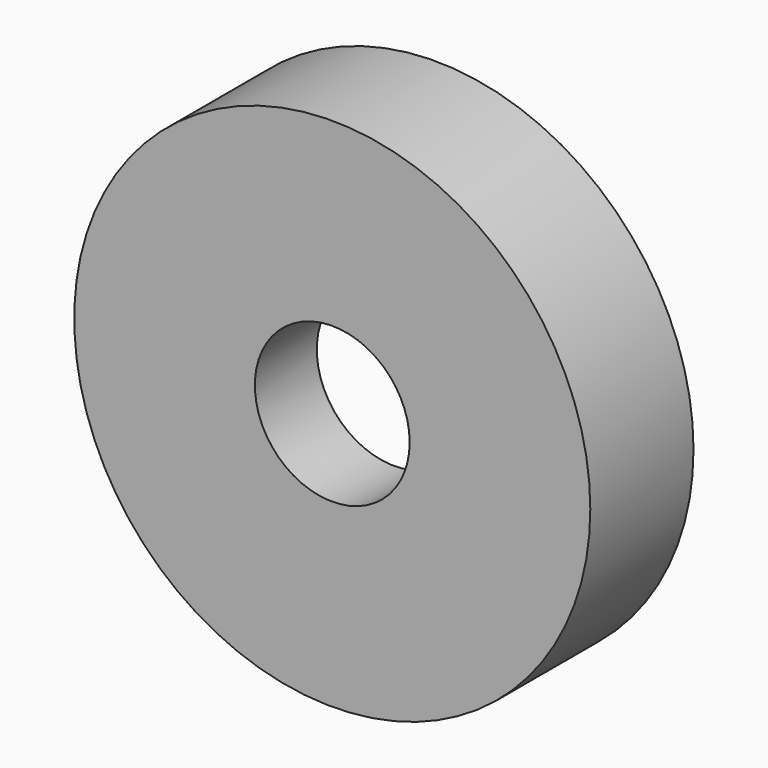
from build123d import *

# Parameters (mm, degrees)
F0_R     = 5
F0_R_2   = 4.1
F0_R_3   = 1.5
F1_DEPTH = 2.5
F2_DEPTH = 1


with BuildPart() as f1:
    # F0 (on Front) → F1 (new body)
    with BuildSketch(Plane.XZ):
        Circle(F0_R)
        Circle(F0_R_2, mode=Mode.SUBTRACT)
        Circle(F0_R_2)
        Circle(F0_R_3, mode=Mode.SUBTRACT)
    extrude(amount=F1_DEPTH)

    # F0 (on Front) → F2 (cut)
    with BuildSketch(Plane.XZ):
        Circle(F0_R_2)
        Circle(F0_R_3, mode=Mode.SUBTRACT)
    extrude(amount=F2_DEPTH, mode=Mode.SUBTRACT)


solid = f1.part
